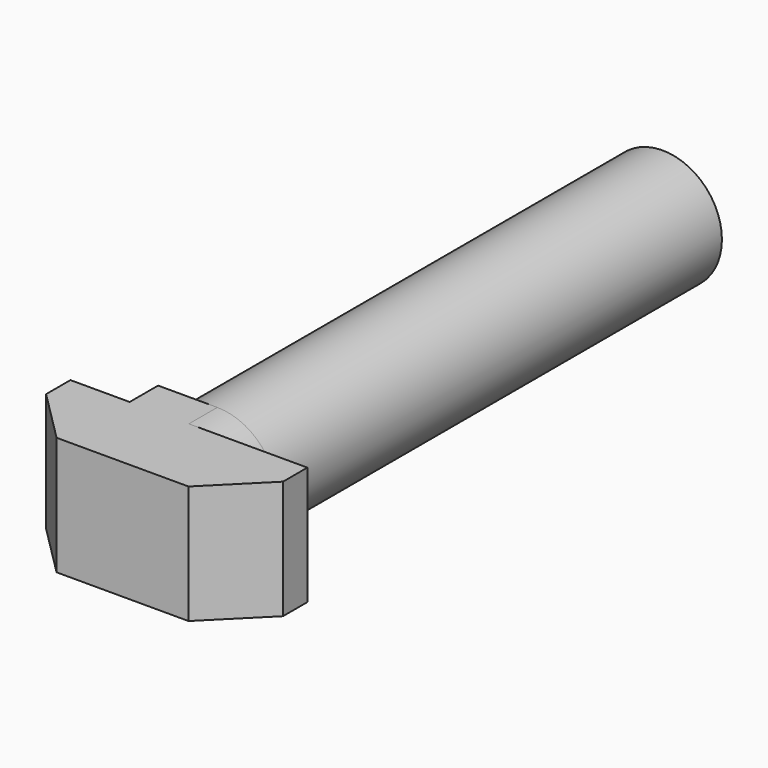
from build123d import *

# Parameters (mm, degrees)
PAD_DEPTH    = 2.5
PAD001_DEPTH = 1.5
SKETCH002_R  = 2.5
PAD002_DEPTH = 25


with BuildPart() as part:
    # Sketch → Pad (new body, symmetric)
    with BuildSketch(Plane.XY):
        Polygon((-5, 0), (5, 0), (5, -1.284989), (2.784989, -3.5), (-2.784989, -3.5), (-5, -1.284989), align=None)
    extrude(amount=PAD_DEPTH, both=True)

    # Sketch001 → Pad001 (join)
    with BuildSketch(Plane.XZ):
        with BuildLine():
            ThreePointArc((-2.5, 0), (-1.767767, -1.767767), (0, -2.5))
            Line((0, -2.5), (2.5, -2.5))
            Line((2.5, 0), (2.5, -2.5))
            ThreePointArc((2.5, 0), (1.767767, 1.767767), (0, 2.5))
            Line((-2.5, 2.5), (0, 2.5))
            Line((-2.5, 0), (-2.5, 2.5))
        make_face()
    extrude(amount=-PAD001_DEPTH)

    # Sketch002 → Pad002 (join)
    with BuildSketch(Plane.XZ):
        Circle(SKETCH002_R)
    extrude(amount=-PAD002_DEPTH)


solid = part.part
